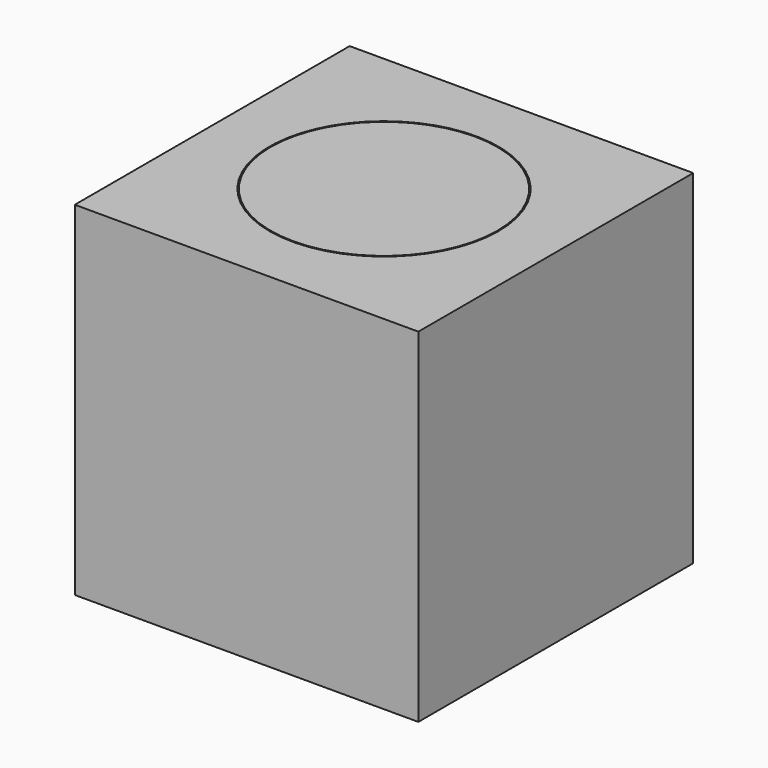
from build123d import *

# Parameters (mm, degrees)
F0_W     = 300
F0_H     = 300
F1_DEPTH = 150
F2_R     = 100
F3_DEPTH = 10
F4_R     = 99
F5_DEPTH = 10


with BuildPart() as f1:
    # F0 (on Top) → F1 (new body, symmetric)
    with BuildSketch(Plane.XY):
        Rectangle(F0_W, F0_H)
    extrude(amount=F1_DEPTH, both=True)

    # F2 (on face) → F3 (cut)
    with BuildSketch(Plane.XY.offset(150)):
        Circle(F2_R)
    extrude(amount=-F3_DEPTH, mode=Mode.SUBTRACT)

    # F4 (on face) → F5 (join)
    with BuildSketch(Plane.XY.offset(140)):
        Circle(F4_R)
    extrude(amount=F5_DEPTH)


solid = f1.part
